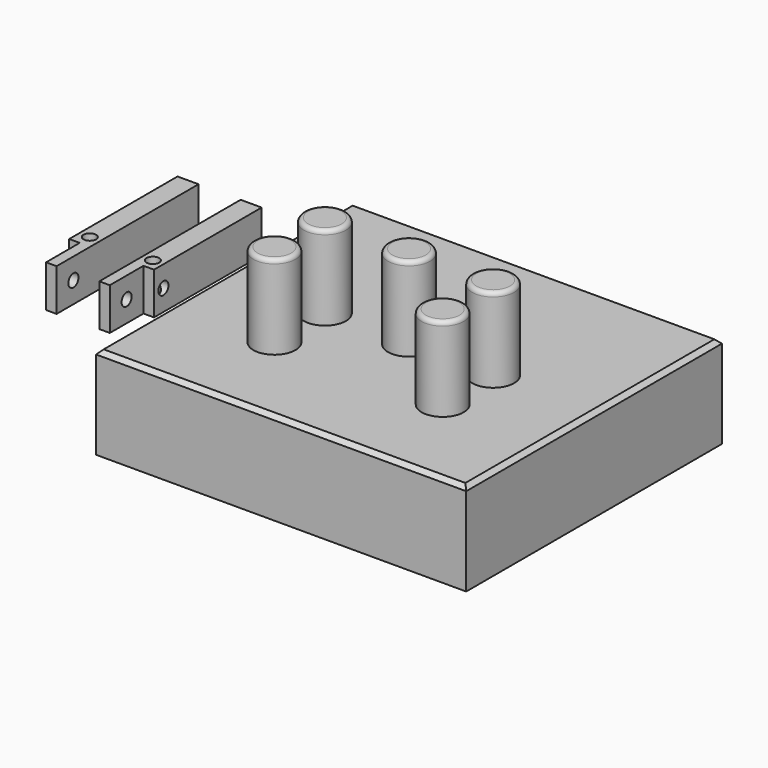
from build123d import *

# Parameters (mm, degrees)
F0_W      = 88
F0_H      = 76
F1_DEPTH  = 22
F2_SIZE   = 1
F3_R      = 5
F4_DEPTH  = 20
F5_R      = 1
F6_R      = 1.5
F7_DEPTH  = 10
F8_R      = 1.5
F9_DEPTH  = 2.5
F10_R     = 1.5
F11_DEPTH = 2.5
F12_R     = 1.5
F13_DEPTH = 2.5
F14_R     = 1.5
F15_DEPTH = 2.5


with BuildPart() as f1:
    # F0 (on Top) → F1 (new body)
    with BuildSketch(Plane.XY):
        with Locations((9.885495, -3.379333)):
            Rectangle(F0_W, F0_H)
    extrude(amount=F1_DEPTH)

    # F2
    f2_edges = [f1.edges().sort_by_distance(p)[0] for p in [
        (9.885495, -41.379333, 22),
        (-34.114505, -3.379333, 22),
        (9.885495, 34.620667, 22),
        (53.885495, -3.379333, 22),
    ]]
    chamfer(f2_edges, length=F2_SIZE)


with BuildPart() as f4:
    # F3 (on face) → F4 (new body)
    with BuildSketch(Plane.XY.offset(22)):
        with Locations((-10.114505, -3.379333)):
            Circle(F3_R)
        with Locations((9.885495, -3.379333)):
            Circle(F3_R)
        with Locations((29.885495, -3.379333)):
            Circle(F3_R)
        with Locations((29.885495, -18.379333)):
            Circle(F3_R)
        with Locations((-10.114505, -18.379333)):
            Circle(F3_R)
    extrude(amount=F4_DEPTH)

    # F5
    f5_edges = [f4.edges().sort_by_distance(p)[0] for p in [
        (-15.114505, -3.379333, 42),
        (-15.114505, -18.379333, 42),
        (4.885495, -3.379333, 42),
        (24.885495, -3.379333, 42),
        (24.885495, -18.379333, 42),
    ]]
    fillet(f5_edges, radius=F5_R)


with BuildPart() as f7:
    # F6 (on Top) → F7 (new body)
    with BuildSketch(Plane.XY):
        Polygon((-60.23356, 40.469234), (-65.23356, 40.469234), (-65.23356, -1.530766), (-62.73356, -1.530766), (-62.73356, 8.469234), (-60.23356, 8.469234), align=None)
        with Locations((-62.73356, 11.27014)):
            Circle(F6_R, mode=Mode.SUBTRACT)
        Polygon((-75.23356, 40.469234), (-80.23356, 40.469234), (-80.23356, 8.27014), (-77.73356, 8.27014), (-77.73356, -1.72986), (-75.23356, -1.72986), align=None)
        with Locations((-77.73356, 11.27014)):
            Circle(F6_R, mode=Mode.SUBTRACT)
    extrude(amount=F7_DEPTH)

    # F8 (on face) → F9 (cut)
    with BuildSketch(Plane(origin=(-80.23356, 0, 0), x_dir=(0, -1, 0), z_dir=(-1, 0, 0))):
        with Locations((-11.270235, 5)):
            Circle(F8_R)
    extrude(amount=-F9_DEPTH, mode=Mode.SUBTRACT)

    # F10 (on face) → F11 (cut)
    with BuildSketch(Plane(origin=(-77.73356, 0, 0), x_dir=(0, -1, 0), z_dir=(-1, 0, 0))):
        with Locations((-3.27014, 5)):
            Circle(F10_R)
    extrude(amount=-F11_DEPTH, mode=Mode.SUBTRACT)

    # F12 (on face) → F13 (cut)
    with BuildSketch(Plane.YZ.offset(-60.23356)):
        with Locations((11.270214, 5)):
            Circle(F12_R)
    extrude(amount=-F13_DEPTH, mode=Mode.SUBTRACT)

    # F14 (on face) → F15 (cut)
    with BuildSketch(Plane.YZ.offset(-62.73356)):
        with Locations((3.469234, 5)):
            Circle(F14_R)
    extrude(amount=-F15_DEPTH, mode=Mode.SUBTRACT)


solid = Compound([f1.part, f4.part, f7.part])
